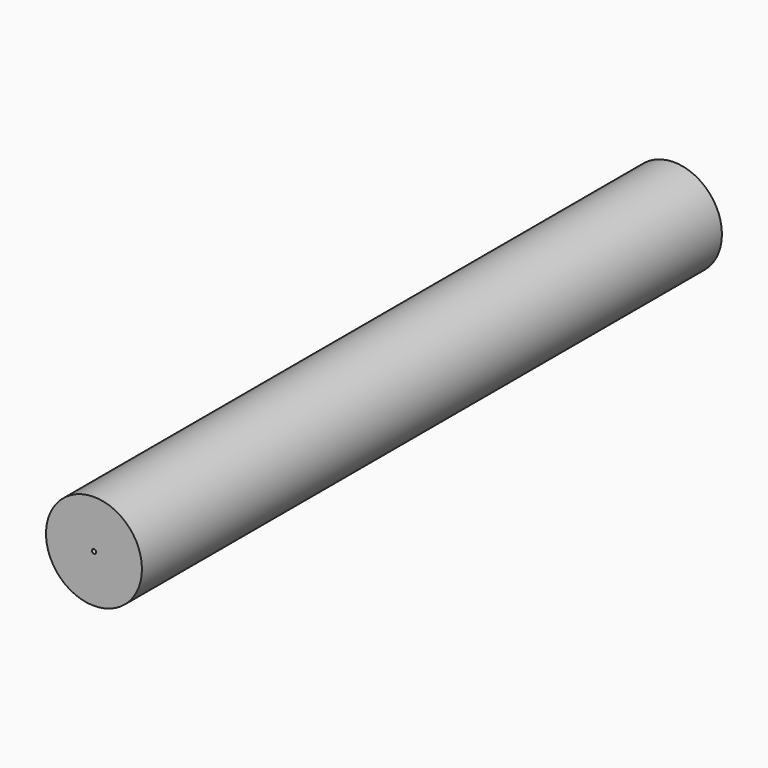
from build123d import *

# Parameters (mm, degrees)
F0_R     = 22.5
F0_R_2   = 20
F1_DEPTH = 330
F2_R     = 22.5
F3_DEPTH = 5
F4_R     = 22.5
F5_DEPTH = 5
F0_R_3   = 0.75
F7_DEPTH = 1
F6_R     = 1
F8_DEPTH = 25


with BuildPart() as f1:
    # F0 (on Front) → F1 (new body)
    with BuildSketch(Plane.XZ):
        Circle(F0_R)
        Circle(F0_R_2, mode=Mode.SUBTRACT)
    extrude(amount=F1_DEPTH)

    # F2 (on Front) → F3 (join)
    with BuildSketch(Plane.XZ):
        Circle(F2_R)
    extrude(amount=-F3_DEPTH)

    # F4 (on face) → F5 (join)
    with BuildSketch(Plane.XZ.offset(330)):
        Circle(F4_R)
    extrude(amount=F5_DEPTH)

    # F6 (on face) → F8 (cut)
    with BuildSketch(Plane.XZ.offset(335)):
        Circle(F6_R)
    extrude(amount=-F8_DEPTH, mode=Mode.SUBTRACT)


with BuildPart() as f7:
    # F0 (on Front) → F7 (new body)
    with BuildSketch(Plane.XZ):
        Circle(F0_R_2)
        Circle(F0_R_3, mode=Mode.SUBTRACT)
        Circle(F0_R_3)
    extrude(amount=F7_DEPTH)


solid = Compound([f1.part, f7.part])
